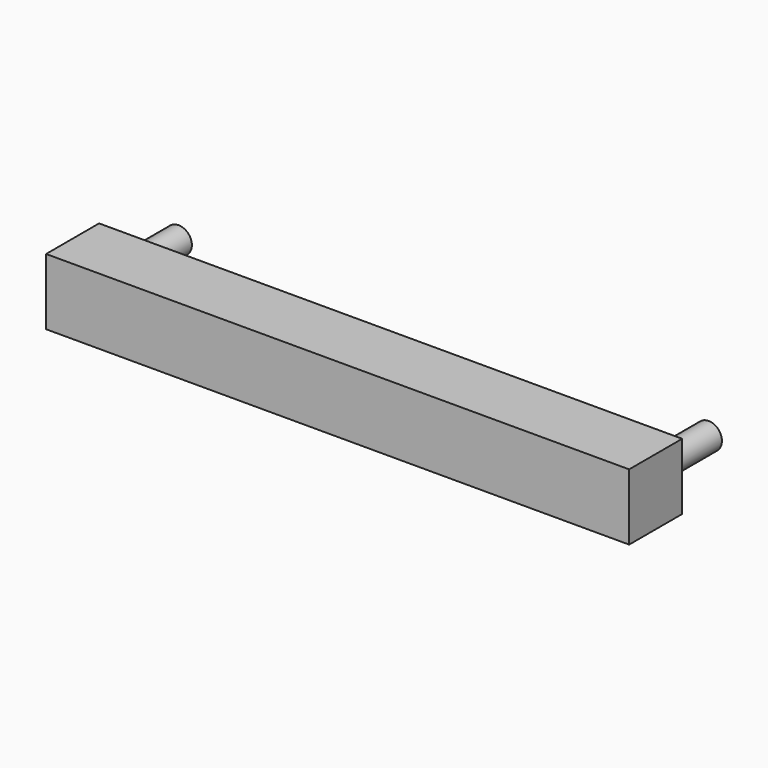
from build123d import *

# Parameters (mm, degrees)
F0_W     = 220
F0_H     = 25
F0_R     = 5
F1_DEPTH = 25
F2_DEPTH = 25


with BuildPart() as f1:
    # F0 (on Front) → F1 (new body)
    with BuildSketch(Plane.XZ):
        with Locations((103.33334, 12.5)):
            Rectangle(F0_W, F0_H)
        with Locations((3.33334, 12.5)):
            Circle(F0_R, mode=Mode.SUBTRACT)
        with Locations((203.33334, 12.5)):
            Circle(F0_R, mode=Mode.SUBTRACT)
        with Locations((3.33334, 12.5)):
            Circle(F0_R)
        with Locations((203.33334, 12.5)):
            Circle(F0_R)
    extrude(amount=F1_DEPTH)

    # F0 (on Front) → F2 (join)
    with BuildSketch(Plane.XZ):
        with Locations((3.33334, 12.5)):
            Circle(F0_R)
        with Locations((203.33334, 12.5)):
            Circle(F0_R)
    extrude(amount=-F2_DEPTH)


solid = f1.part
